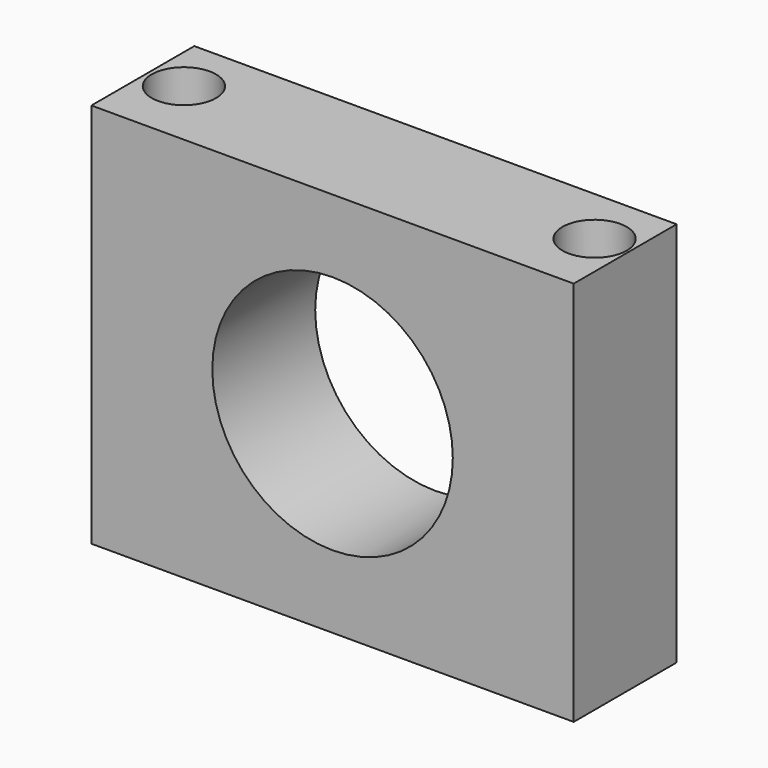
from build123d import *

# Parameters (mm, degrees)
F1_DEPTH = 25.4
F2_R     = 6.35
F3_DEPTH = 127


with BuildPart() as f1:
    # F0 (on Front) → F1 (new body)
    with BuildSketch(Plane.XZ):
        with BuildLine():
            Line((50.448996, 42.312059), (-44.801004, 42.312059))
            Line((-44.801004, 42.312059), (-44.801004, 4.212059))
            Line((-44.801004, 4.212059), (-20.925004, 4.212059))
            ThreePointArc((-20.925004, 4.212059), (2.823996, 27.961059), (26.572996, 4.212059))
            Line((26.572996, 4.212059), (50.448996, 4.212059))
            Line((50.448996, 4.212059), (50.448996, 42.312059))
        make_face()
        with BuildLine():
            Line((-20.925004, 4.212059), (-44.801004, 4.212059))
            Line((-44.801004, 4.212059), (-44.801004, -33.887941))
            Line((-44.801004, -33.887941), (50.448996, -33.887941))
            Line((50.448996, -33.887941), (50.448996, 4.212059))
            Line((50.448996, 4.212059), (26.572996, 4.212059))
            ThreePointArc((26.572996, 4.212059), (2.823996, -19.536941), (-20.925004, 4.212059))
        make_face()
    extrude(amount=-F1_DEPTH)

    # F2 (on face) → F3 (cut)
    with BuildSketch(Plane.XY.offset(42.312059)):
        with Locations((43.597583, 13.721606)):
            Circle(F2_R)
        with Locations((-37.682131, 13.937226)):
            Circle(F2_R)
    extrude(amount=-F3_DEPTH, mode=Mode.SUBTRACT)


solid = f1.part
